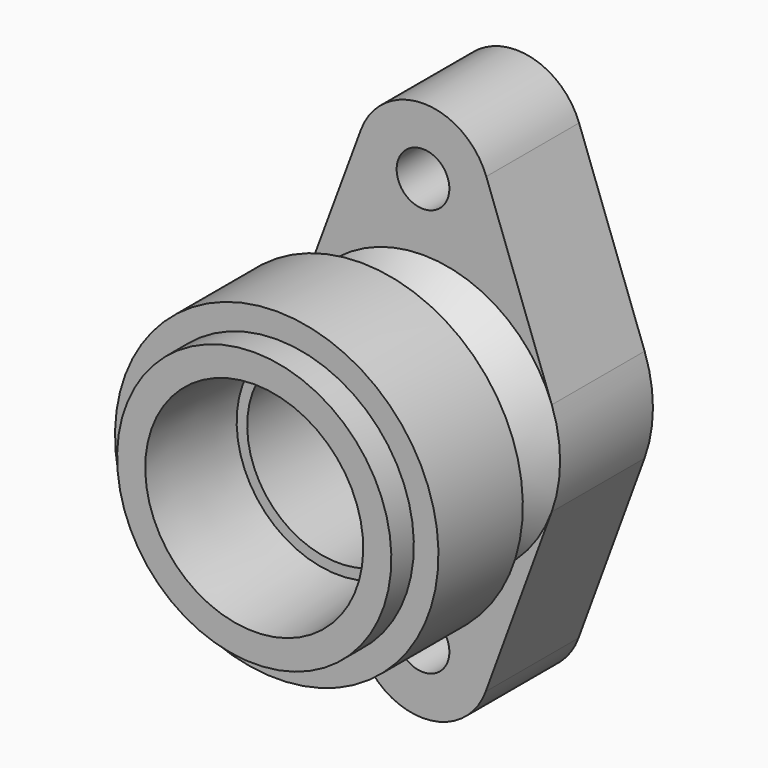
from build123d import *

# Parameters (mm, degrees)
F2_R     = 7.5
F3_DEPTH = 33


with BuildPart() as f1:
    # F0 (on Right) → F1 (revolve)
    with BuildSketch(Plane.YZ):
        with BuildLine():
            Line((0, 26), (0, 0))
            Line((0, 0), (18, 0))
            Line((18, 0), (18, 32))
            Line((18, 32), (21, 32))
            Line((21, 32), (21, 39))
            Line((21, 39), (-12, 39))
            Line((-12, 39), (-26.1321178182, 29.1045845728))
            ThreePointArc((-26.1321178182, 29.1045845728), (-31.3087430662, 28.7652906284), (-34, 33.2003447942))
            Line((-34, 33.2003447942), (-34, 46))
            Line((-34, 46), (-64, 46))
            Line((-64, 46), (-64, 39))
            Line((-64, 39), (-72, 39))
            Line((-72, 39), (-72, 31))
            Line((-72, 31), (-42, 29))
            Line((-42, 29), (-42, 26))
            Line((-42, 26), (0, 26))
        make_face()
    revolve(axis=Axis((0, -41.3636378944, 0), (0, -1, 0)))

    # F2 (on face) → F3 (join)
    with BuildSketch(Plane(origin=(0, 21, 0), x_dir=(-1, 0, 0), z_dir=(0, 1, 0))):
        with BuildLine():
            Line((-17.9939212891, 64.4593204723), (-36.6370007464, 13.3690005726))
            ThreePointArc((-36.6370007464, 13.3690005726), (-0.0976750265, 38.9998776868), (36.569576349, 13.5523461311))
            Line((36.569576349, 13.5523461311), (17.6708213984, 64.5486426675))
            ThreePointArc((17.6708213984, 64.5486426675), (-0.192711323, 76.9461580408), (-17.9939212891, 64.4593204723))
        make_face()
        with Locations((0, 58)):
            Circle(F2_R, mode=Mode.SUBTRACT)
        with BuildLine():
            Line((-36.6079755837, -13.4482758621), (-17.8346547716, -64.5517241379))
            ThreePointArc((-17.8346547716, -64.5517241379), (0, -77), (17.8346547716, -64.5517241379))
            Line((17.8346547716, -64.5517241379), (36.6079755837, -13.4482758621))
            ThreePointArc((36.6079755837, -13.4482758621), (0, -39), (-36.6079755837, -13.4482758621))
        make_face()
        with Locations((0, -58)):
            Circle(F2_R, mode=Mode.SUBTRACT)
    extrude(amount=-F3_DEPTH)


solid = f1.part
